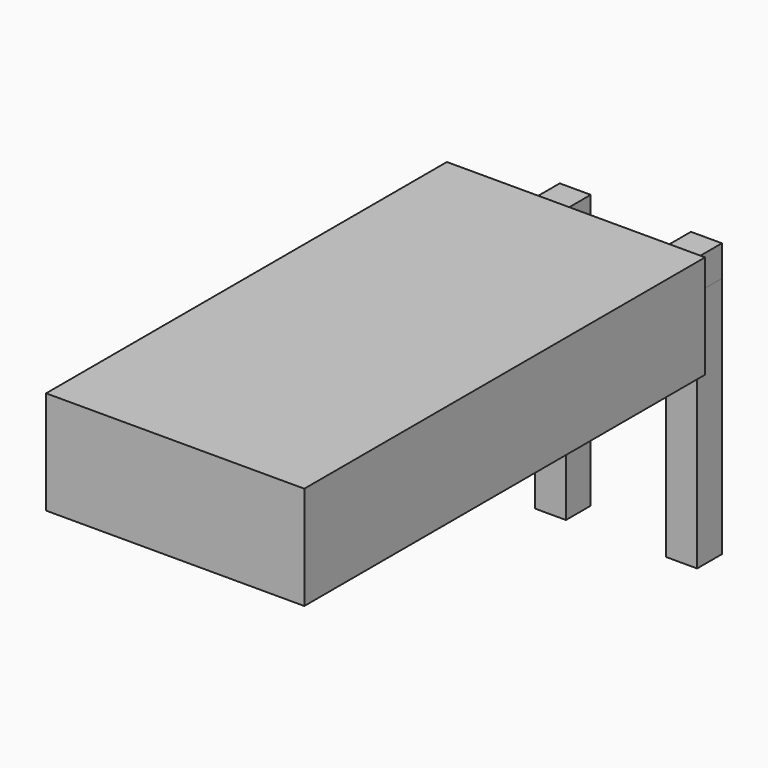
from build123d import *

# Parameters (mm, degrees)
SKETCH_W       = 0.6
SKETCH_H       = 0.6
PAD_DEPTH      = 2.7
PAD_DEPTH_BACK = 2
PAD001_DEPTH   = 0.6
SKETCH002_W    = 2.54
SKETCH002_H    = 0.6
PAD002_DEPTH   = 1
SKETCH004_W    = 5
SKETCH004_H    = 2
PAD003_DEPTH   = 9.7


with BuildPart() as pad:
    # Sketch → Pad (new body, two sides)
    with BuildSketch(Plane.XY) as pad_sk:
        Rectangle(SKETCH_W, SKETCH_H)
        with Locations((2.54, 0)):
            Rectangle(SKETCH_W, SKETCH_H)
    extrude(amount=PAD_DEPTH)
    extrude(pad_sk.sketch, amount=-PAD_DEPTH_BACK)


with BuildPart() as pad001:
    # Sketch001 → Pad001 (new body)
    with BuildSketch(Plane.XY.offset(2.7)):
        Polygon((0.3, 0.3), (-0.3, 0.3), (-0.3, -0.3), (0, -1.77), (0.6, -1.77), (0.3, -0.3), align=None)
        Polygon((2.84, 0.3), (2.24, 0.3), (2.24, -0.3), (1.94, -1.77), (2.54, -1.77), (2.84, -0.3), align=None)
    extrude(amount=PAD001_DEPTH)


with BuildPart() as pad002:
    # Sketch002 → Pad002 (new body)
    with BuildSketch(Plane.XZ.offset(1.77)):
        with Locations((1.27, 3)):
            Rectangle(SKETCH002_W, SKETCH002_H)
    extrude(amount=PAD002_DEPTH)


with BuildPart() as pad003:
    # Sketch004 → Pad003 (new body)
    with BuildSketch(Plane.XZ.offset(1.27)):
        with Locations((1.27, 3)):
            Rectangle(SKETCH004_W, SKETCH004_H)
    extrude(amount=PAD003_DEPTH)


with BuildPart() as revolution001:
    # Sketch005 → Revolution001 (revolve)
    with BuildSketch(Plane.YZ.offset(1.27)):
        Polygon((-2.47, 3), (-2.97, 3), (-2.97, 3.5), align=None)
    revolve(axis=Axis((1.27, -3.977201, 3), (0, -1, 0)))


solid = Compound([pad.part, pad001.part, pad002.part, pad003.part, revolution001.part])
